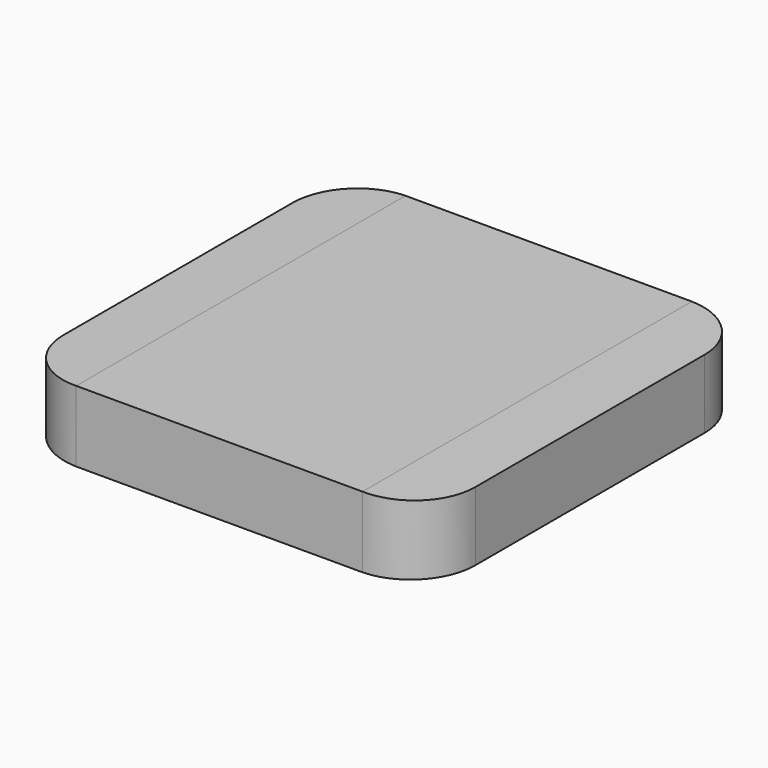
from build123d import *

# Parameters (mm, degrees)
F0_W     = 197
F0_H     = 197
F1_DEPTH = 34
F2_R     = 30
F5_DEPTH = 197


with BuildPart() as f1:
    # F0 (on Top) → F1 (new body)
    with BuildSketch(Plane.XY):
        with Locations((98.5, -98.5)):
            Rectangle(F0_W, F0_H)
    extrude(amount=F1_DEPTH)

    # F2
    f2_edges = [f1.edges().sort_by_distance(p)[0] for p in [
        (197, -197, 17),
        (197, 0, 17),
        (0, 0, 17),
        (0, -197, 17),
    ]]
    fillet(f2_edges, radius=F2_R)

    # F4 (on offset) → F5 (cut)
    with BuildSketch(Plane.XZ.offset(197)):
        Polygon((197, 34), (167, 34), (197, 33.476348), align=None)
        Polygon((0, 0.523652), (0, 0), (30, 0), align=None)
        Polygon((197, 0.523652), (167, 0), (197, 0), align=None)
        Polygon((30, 34), (0, 34), (0, 33.476348), align=None)
    extrude(amount=-F5_DEPTH, mode=Mode.SUBTRACT)


with BuildPart() as f9:
    # F6 (on Top) → F9 section 0
    with BuildSketch(Plane.XY):
        Polygon((30, -167), (167, -167), (167, -30), (98.5, -30), (30, -30), align=None)
    # F8 (on offset) → F9 section 1
    with BuildSketch(Plane.XY.offset(-2)):
        Polygon((33.5, -163.5), (163.5, -163.5), (163.5, -33.5), (98.5, -33.5), (33.5, -33.5), align=None)
    loft()


solid = Compound([f1.part, f9.part])
